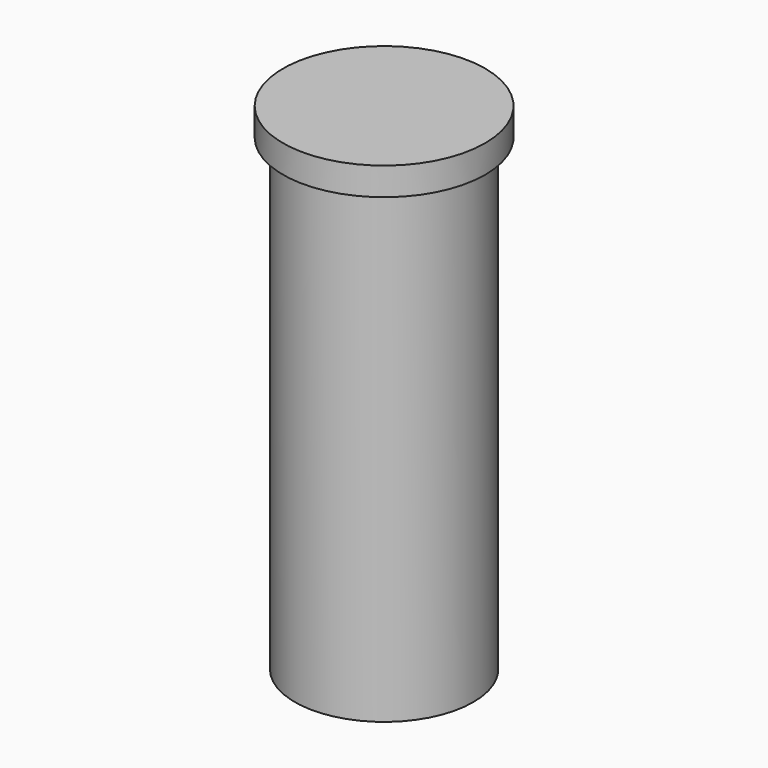
from build123d import *

# Parameters (mm, degrees)
F0_R     = 14.534071
F1_DEPTH = 4
F2_R     = 9.020601
F3_DEPTH = 55.9
F4_R     = 12.826106
F4_R_2   = 10.112728
F5_DEPTH = 67.3


with BuildPart() as f1:
    # F0 (on Top) → F1 (new body)
    with BuildSketch(Plane.XY):
        Circle(F0_R)
    extrude(amount=-F1_DEPTH)

    # F2 (on face) → F3 (join)
    with BuildSketch(Plane(origin=(0, 0, -4), x_dir=(1, 0, 0), z_dir=(0, 0, -1))):
        Circle(F2_R)
    extrude(amount=F3_DEPTH)

    # F4 (on face) → F5 (join)
    with BuildSketch(Plane(origin=(0, 0, -4), x_dir=(1, 0, 0), z_dir=(0, 0, -1))):
        Circle(F4_R)
        Circle(F4_R_2, mode=Mode.SUBTRACT)
    extrude(amount=F5_DEPTH)


solid = f1.part
